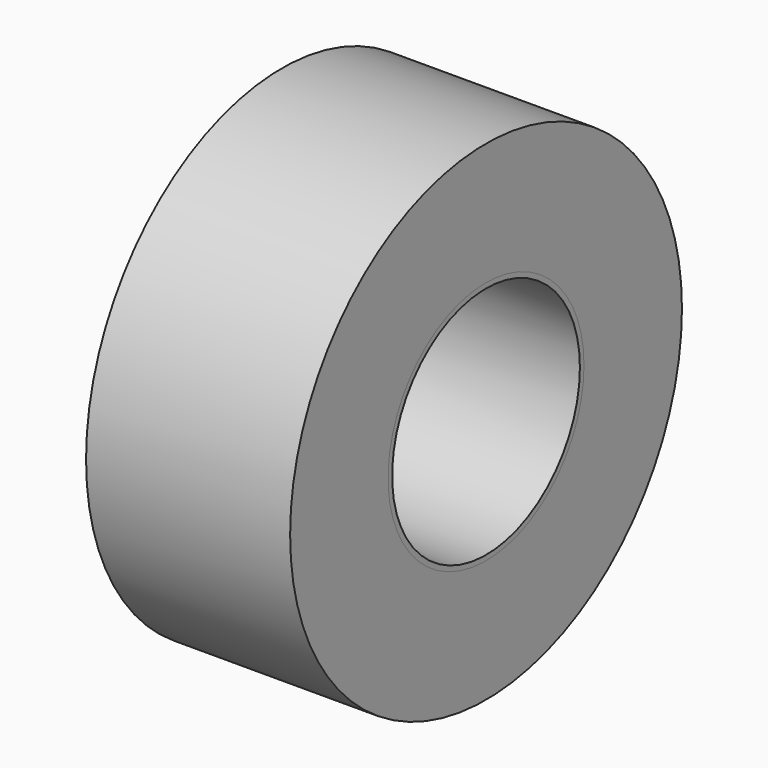
from build123d import *

# Parameters (mm, degrees)
F0_R     = 76.2
F0_R_2   = 38.1
F1_DEPTH = 63.5
F0_R_3   = 36.5125
F2_DEPTH = 63.5


with BuildPart() as f1:
    # F0 (on Right) → F1 (new body)
    with BuildSketch(Plane.YZ):
        Circle(F0_R)
        Circle(F0_R_2, mode=Mode.SUBTRACT)
    extrude(amount=F1_DEPTH)


with BuildPart() as f2:
    # F0 (on Right) → F2 (new body)
    with BuildSketch(Plane.YZ):
        Circle(F0_R_2)
        Circle(F0_R_3, mode=Mode.SUBTRACT)
    extrude(amount=F2_DEPTH)


solid = Compound([f1.part, f2.part])
